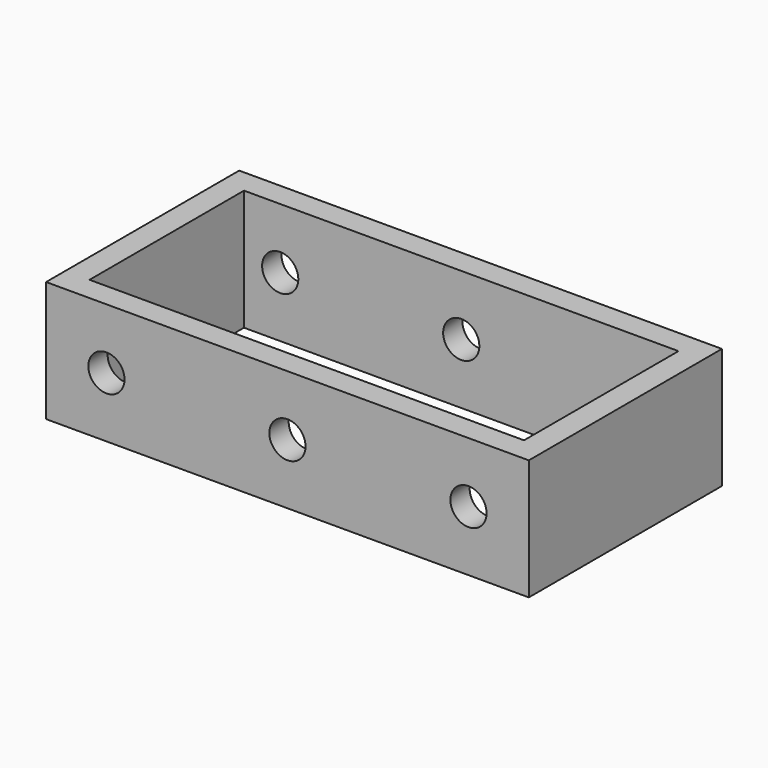
from build123d import *

# Parameters (mm, degrees)
F0_W     = 200
F0_H     = 100
F0_W_2   = 180
F0_H_2   = 80
F1_DEPTH = 50
F2_R     = 7.5
F3_DEPTH = 50


with BuildPart() as f1:
    # F0 (on Top) → F1 (new body)
    with BuildSketch(Plane.XY):
        Rectangle(F0_W, F0_H)
        Rectangle(F0_W_2, F0_H_2, mode=Mode.SUBTRACT)
    extrude(amount=F1_DEPTH)

    # F2 (on Front) → F3 (cut, symmetric)
    with BuildSketch(Plane.XZ):
        with Locations((0, 25)):
            Circle(F2_R)
        with Locations((-75, 25)):
            Circle(F2_R)
        with Locations((75, 25)):
            Circle(F2_R)
    extrude(amount=F3_DEPTH, both=True, mode=Mode.SUBTRACT)


solid = f1.part
